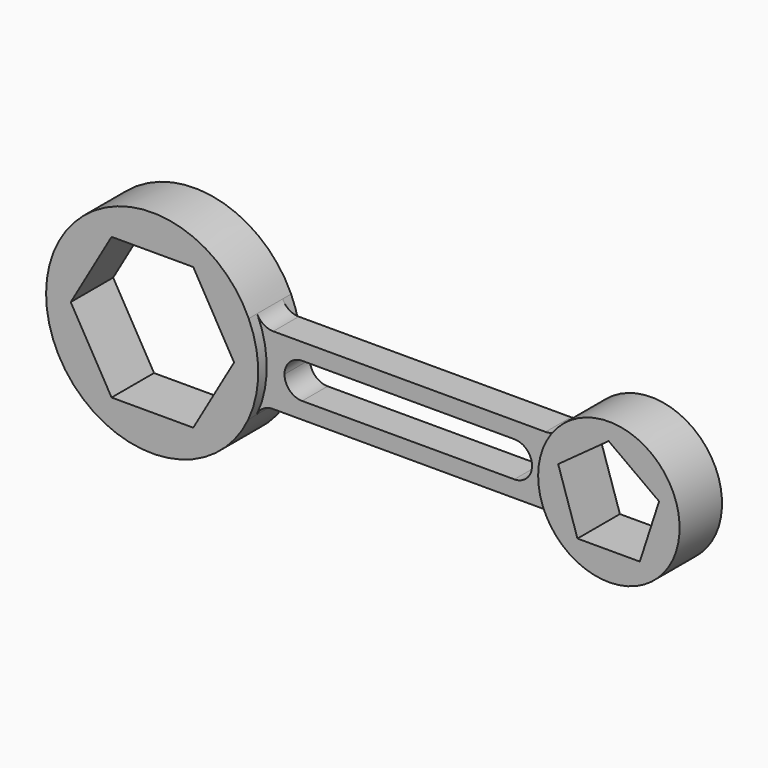
from build123d import *

# Parameters (mm, degrees)
F1_DEPTH = 15
F2_DEPTH = 12
F3_DEPTH = 3


with BuildPart() as f1:
    # F0 (on Front) → F1 (new body)
    with BuildSketch(Plane.XZ):
        with BuildLine():
            ThreePointArc((27.111572217, -12.8918176383), (29.93394524, -0.3222598375), (27.2243880974, 12.2720989346))
            ThreePointArc((27.2243880974, 12.2720989346), (-30.0654517858, -0.0532681334), (27.111572217, -12.8918176383))
        make_face()
        Polygon((-11.5470053838, -20), (-23.0940107676, 0), (-11.5470053838, 20), (11.5470053838, 20), (23.0940107676, 0), (11.5470053838, -20), align=None, mode=Mode.SUBTRACT)
    extrude(amount=F1_DEPTH)



with BuildPart() as f1b:
    # F0 (on Front) → F1, piece 2 (new body)
    with BuildSketch(Plane.XZ):
        with BuildLine():
            ThreePointArc((112.9235786366, -12.0569396696), (149.0649853319, -0.1668697578), (112.8282363773, 11.4293824652))
            ThreePointArc((112.8282363773, 11.4293824652), (109.0653149154, -0.3292476273), (112.9235786366, -12.0569396696))
        make_face()
        Polygon((114.7340843825, 4.5029248509), (128.9999321269, 14.8676699353), (143.2657798714, 4.5029248509), (137.8167109113, -12.2675849804), (120.1831533425, -12.2675849804), align=None, mode=Mode.SUBTRACT)
    extrude(amount=F1_DEPTH)


with BuildPart() as f1_1:
    add(f1.part)

    add(f1b.part)  # F2 merges F1b
    # F0 (on Front) → F2 (join)
    with BuildSketch(Plane.XZ):
        with BuildLine():
            Line((108.7690079407, 9.3487427546), (31.7727449925, 9.3487427546))
            ThreePointArc((31.7727449925, 9.3487427546), (29.0693414988, 10.1426032479), (27.2243880974, 12.2720989346))
            ThreePointArc((27.2243880974, 12.2720989346), (29.93394524, -0.3222598375), (27.111572217, -12.8918176383))
            ThreePointArc((27.111572217, -12.8918176383), (28.9566070835, -10.7909427918), (31.6411264653, -10.0091599138))
            Line((31.6411264653, -10.0091599138), (108.8881857649, -10.0091599138))
            ThreePointArc((108.8881857649, -10.0091599138), (111.1508057925, -10.5503988067), (112.9235786366, -12.0569396696))
            ThreePointArc((112.9235786366, -12.0569396696), (109.0653149154, -0.3292476273), (112.8282363773, 11.4293824652))
            ThreePointArc((112.8282363773, 11.4293824652), (111.0497094285, 9.8992033713), (108.7690079407, 9.3487427546))
        make_face()
        with BuildLine():
            ThreePointArc((34.9465236354, -0.3302085796), (36.4109897295, 3.2053253263), (39.9465236354, 4.6697914204))
            Line((39.9465236354, 4.6697914204), (99.9465236354, 4.6697914204))
            ThreePointArc((99.9465236354, 4.6697914204), (103.4820575413, 3.2053253263), (104.9465236354, -0.3302085796))
            ThreePointArc((104.9465236354, -0.3302085796), (103.4820575413, -3.8657424855), (99.9465236354, -5.3302085796))
            Line((99.9465236354, -5.3302085796), (39.9465236354, -5.3302085796))
            ThreePointArc((39.9465236354, -5.3302085796), (36.4109897295, -3.8657424855), (34.9465236354, -0.3302085796))
        make_face(mode=Mode.SUBTRACT)
    extrude(amount=F2_DEPTH)

    # F0 (on Front) → F3 (cut)
    with BuildSketch(Plane.XZ):
        with BuildLine():
            Line((108.7690079407, 9.3487427546), (31.7727449925, 9.3487427546))
            ThreePointArc((31.7727449925, 9.3487427546), (29.0693414988, 10.1426032479), (27.2243880974, 12.2720989346))
            ThreePointArc((27.2243880974, 12.2720989346), (29.93394524, -0.3222598375), (27.111572217, -12.8918176383))
            ThreePointArc((27.111572217, -12.8918176383), (28.9566070835, -10.7909427918), (31.6411264653, -10.0091599138))
            Line((31.6411264653, -10.0091599138), (108.8881857649, -10.0091599138))
            ThreePointArc((108.8881857649, -10.0091599138), (111.1508057925, -10.5503988067), (112.9235786366, -12.0569396696))
            ThreePointArc((112.9235786366, -12.0569396696), (109.0653149154, -0.3292476273), (112.8282363773, 11.4293824652))
            ThreePointArc((112.8282363773, 11.4293824652), (111.0497094285, 9.8992033713), (108.7690079407, 9.3487427546))
        make_face()
        with BuildLine():
            ThreePointArc((34.9465236354, -0.3302085796), (36.4109897295, 3.2053253263), (39.9465236354, 4.6697914204))
            Line((39.9465236354, 4.6697914204), (99.9465236354, 4.6697914204))
            ThreePointArc((99.9465236354, 4.6697914204), (103.4820575413, 3.2053253263), (104.9465236354, -0.3302085796))
            ThreePointArc((104.9465236354, -0.3302085796), (103.4820575413, -3.8657424855), (99.9465236354, -5.3302085796))
            Line((99.9465236354, -5.3302085796), (39.9465236354, -5.3302085796))
            ThreePointArc((39.9465236354, -5.3302085796), (36.4109897295, -3.8657424855), (34.9465236354, -0.3302085796))
        make_face(mode=Mode.SUBTRACT)
    extrude(amount=F3_DEPTH, mode=Mode.SUBTRACT)


solid = f1_1.part
